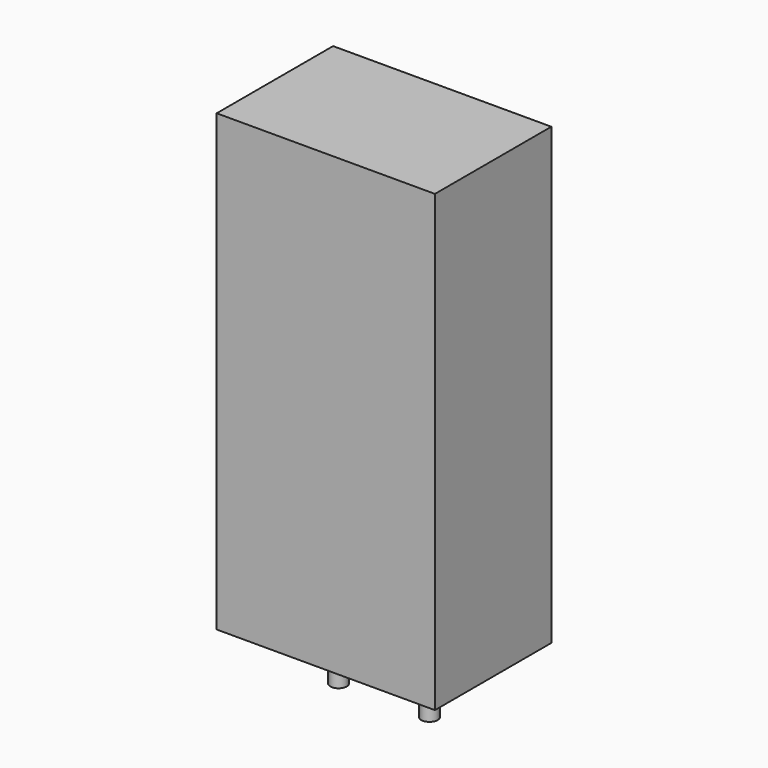
from build123d import *

# Parameters (mm, degrees)
SKETCH_W     = 12
SKETCH_H     = 8
PAD_DEPTH    = 24.99
SKETCH001_R  = 0.45
PAD001_DEPTH = 3.5


with BuildPart() as pad:
    # Sketch → Pad (new body)
    with BuildSketch(Plane.XY.offset(0.1)):
        with Locations((2.5, 0)):
            Rectangle(SKETCH_W, SKETCH_H)
    extrude(amount=PAD_DEPTH)


with BuildPart() as pad001:
    # Sketch001 → Pad001 (new body)
    with BuildSketch(Plane.XY.offset(0.5)):
        Circle(SKETCH001_R)
        with Locations((5, 0)):
            Circle(SKETCH001_R)
    extrude(amount=-PAD001_DEPTH)


solid = Compound([pad.part, pad001.part])
